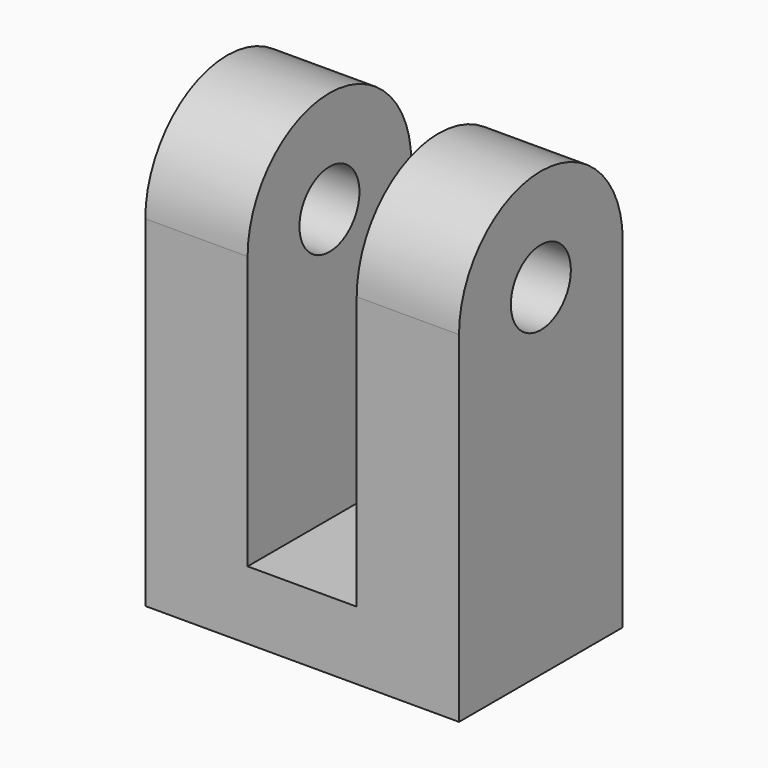
from build123d import *

# Parameters (mm, degrees)
F0_W     = 58.42
F0_H     = 38.1
F1_DEPTH = 12.7
F2_R     = 6.985
F3_DEPTH = 19.05


with BuildPart() as f1:
    # F0 (on Top) → F1 (new body)
    with BuildSketch(Plane.XY):
        Rectangle(F0_W, F0_H)
    extrude(amount=-F1_DEPTH)

    # F2 (on face) → F3 (join)
    with BuildSketch(Plane.YZ.offset(29.21)):
        with BuildLine():
            Line((-19.05, 0), (19.05, 0))
            Line((19.05, 0), (19.05, 50.8))
            ThreePointArc((19.05, 50.8), (0, 69.85), (-19.05, 50.8))
            Line((-19.05, 50.8), (-19.05, 0))
        make_face()
        with Locations((0, 50.8)):
            Circle(F2_R, mode=Mode.SUBTRACT)
    extrude(amount=-F3_DEPTH)

    # F4: F1 across plane


with BuildPart() as f1_1:
    add(f1.part)
    add(f1.part.mirror(Plane.YZ))


solid = f1_1.part
